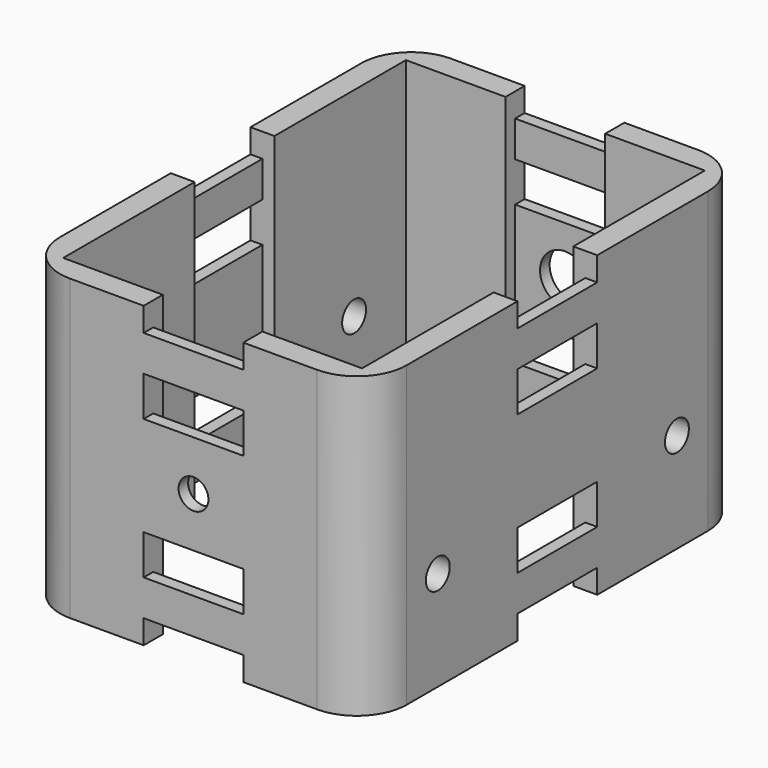
from build123d import *

# Parameters (mm, degrees)
F0_W      = 1.2
F0_H      = 10
F0_W_2    = 10
F0_H_2    = 1.2
F1_DEPTH  = 30
F2_W      = 10
F2_H      = 4
F3_DEPTH  = 47.801
F4_W      = 10
F4_H      = 4
F5_DEPTH  = 34.801
F6_W      = 10
F6_H      = 1.2
F6_W_2    = 1.2
F6_H_2    = 10
F7_DEPTH  = 2.4
F8_DEPTH  = 2.4
F9_R      = 5
F2_R      = 1.5
F10_DEPTH = 1.2
F11_R     = 2.5
F12_DEPTH = 1.2
F4_R      = 1.5
F13_DEPTH = 34.801


with BuildPart() as f1:
    # F0 (on Top) → F1 (new body)
    with BuildSketch(Plane.XY):
        Polygon((15, -5), (15, -21.5), (5, -21.5), (5, -22.7), (5, -23.9), (17.4, -23.9), (17.4, -5), (16.2, -5), align=None)
        with Locations((16.8, 0)):
            Rectangle(F0_W, F0_H)
        Polygon((15, 5), (16.2, 5), (17.4, 5), (17.4, 23.9), (5, 23.9), (5, 22.7), (5, 21.5), (15, 21.5), align=None)
        with Locations((0, 23.3)):
            Rectangle(F0_W_2, F0_H_2)
        Polygon((-17.4, 23.9), (-17.4, 5), (-16.2, 5), (-15, 5), (-15, 21.5), (-5, 21.5), (-5, 22.7), (-5, 23.9), align=None)
        Polygon((-5, -23.9), (-5, -22.7), (-5, -21.5), (-15, -21.5), (-15, -5), (-16.2, -5), (-17.4, -5), (-17.4, -23.9), align=None)
        with Locations((0, -23.3)):
            Rectangle(F0_W_2, F0_H_2)
        with Locations((-16.8, 0)):
            Rectangle(F0_W, F0_H)
    extrude(amount=F1_DEPTH)

    # F2 (on face) → F3 (cut, through all)
    with BuildSketch(Plane.XZ.offset(23.9)):
        with Locations((0, 22)):
            Rectangle(F2_W, F2_H)
        with Locations((0, 8)):
            Rectangle(F2_W, F2_H)
    extrude(amount=-F3_DEPTH, mode=Mode.SUBTRACT)

    # F4 (on face) → F5 (cut, through all)
    with BuildSketch(Plane(origin=(-17.4, 0, 0), x_dir=(0, -1, 0), z_dir=(-1, 0, 0))):
        with Locations((0, 22)):
            Rectangle(F4_W, F4_H)
        with Locations((0, 8)):
            Rectangle(F4_W, F4_H)
    extrude(amount=-F5_DEPTH, mode=Mode.SUBTRACT)

    # F6 (on face) → F7 (cut)
    with BuildSketch(Plane.XY.offset(30)):
        with Locations((0, 23.3)):
            Rectangle(F6_W, F6_H)
        with Locations((16.8, 0)):
            Rectangle(F6_W_2, F6_H_2)
        with Locations((-16.8, 0)):
            Rectangle(F6_W_2, F6_H_2)
        with Locations((0, -23.3)):
            Rectangle(F6_W, F6_H)
    extrude(amount=-F7_DEPTH, mode=Mode.SUBTRACT)

    # F0 (on Top) → F8 (cut)
    with BuildSketch(Plane.XY):
        with Locations((16.8, 0)):
            Rectangle(F0_W, F0_H)
        with Locations((0, 23.3)):
            Rectangle(F0_W_2, F0_H_2)
        with Locations((0, -23.3)):
            Rectangle(F0_W_2, F0_H_2)
        with Locations((-16.8, 0)):
            Rectangle(F0_W, F0_H)
    extrude(amount=F8_DEPTH, mode=Mode.SUBTRACT)

    # F9
    f9_edges = [f1.edges().sort_by_distance(p)[0] for p in [
        (-17.4, -23.9, 15),
        (-17.4, 23.9, 15),
        (17.4, -23.9, 15),
        (17.4, 23.9, 15),
    ]]
    fillet(f9_edges, radius=F9_R)

    # F2 (on face) → F10 (cut, through all)
    with BuildSketch(Plane.XZ.offset(23.9)):
        with Locations((0, 15)):
            Circle(F2_R)
    extrude(amount=-F10_DEPTH, mode=Mode.SUBTRACT)

    # F11 (on face) → F12 (cut, through all)
    with BuildSketch(Plane(origin=(0, 23.9, 0), x_dir=(-1, 0, 0), z_dir=(0, 1, 0))):
        with Locations((0, 15)):
            Circle(F11_R)
    extrude(amount=-F12_DEPTH, mode=Mode.SUBTRACT)

    # F4 (on face) → F13 (cut, through all)
    with BuildSketch(Plane(origin=(-17.4, 0, 0), x_dir=(0, -1, 0), z_dir=(-1, 0, 0))):
        with Locations((-15, 10)):
            Circle(F4_R)
        with Locations((15, 10)):
            Circle(F4_R)
    extrude(amount=-F13_DEPTH, mode=Mode.SUBTRACT)


solid = f1.part
